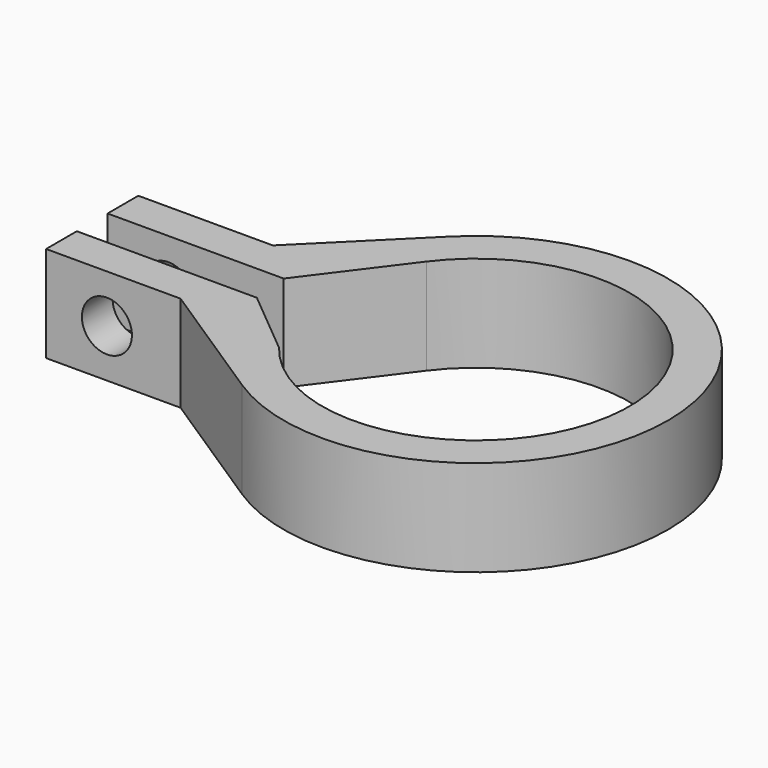
from build123d import *

# Parameters (mm, degrees)
F1_DEPTH = 10
F2_R     = 2.603191
F3_DEPTH = 12.5


with BuildPart() as f1:
    # F0 (on Top) → F1 (new body)
    with BuildSketch(Plane.XY):
        with BuildLine():
            ThreePointArc((-12.8, 9.6), (15.999769, 0.085999), (-12.696063, -9.737042))
            Line((-12.696063, -9.737042), (-19.595918, -4))
            Line((-19.595918, -4), (-38.330303, -4))
            Line((-38.330303, -4), (-38.330303, -8))
            Line((-38.330303, -8), (-24.330303, -8))
            Line((-24.330303, -8), (-10.933995, -16.746575))
            ThreePointArc((-10.933995, -16.746575), (19.895316, 2.043625), (-14.110129, 14.17407))
            Line((-14.110129, 14.17407), (-24.330303, 4))
            Line((-24.330303, 4), (-38.330303, 4))
            Line((-38.330303, 4), (-38.330303, 0))
            Line((-38.330303, 0), (-20, 0))
            Line((-20, 0), (-12.8, 9.6))
        make_face()
    extrude(amount=F1_DEPTH)

    # F2 (on Front) → F3 (cut, symmetric)
    with BuildSketch(Plane.XZ):
        with Locations((-32, 5)):
            Circle(F2_R)
    extrude(amount=F3_DEPTH, both=True, mode=Mode.SUBTRACT)


solid = f1.part
